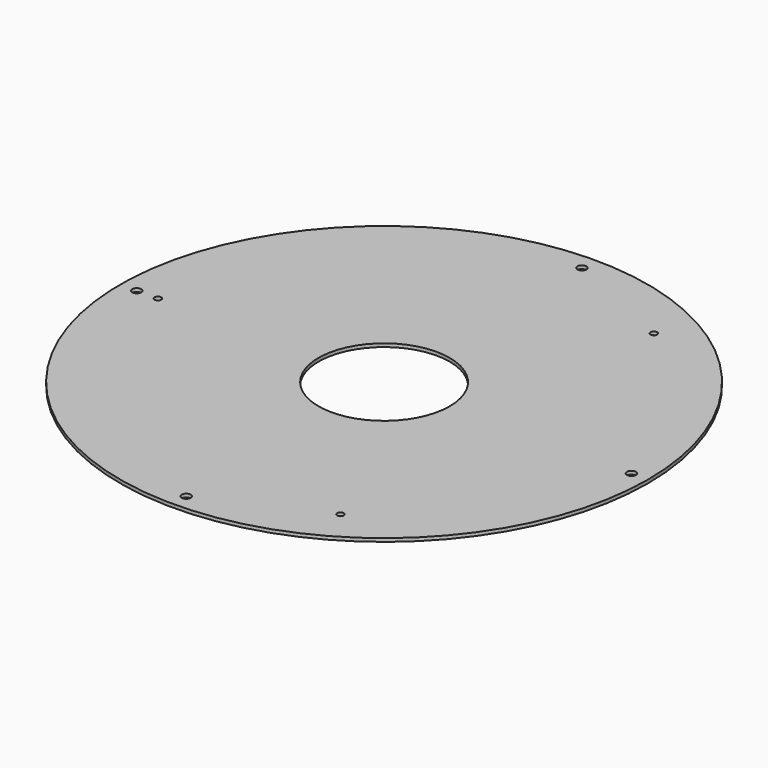
from build123d import *

# Parameters (mm, degrees)
F0_R     = 237.5
F1_DEPTH = 3
F2_D     = 8
F3_D     = 6


with BuildPart() as f1:
    # F0 (on Top) → F1 (new body)
    with BuildSketch(Plane.XY):
        with BuildLine():
            ThreePointArc((-59, 0), (0, -59), (59, 0))
            ThreePointArc((59, 0), (0, 59), (-59, 0))
        make_face()
        Circle(F0_R)
        with BuildLine():
            ThreePointArc((-59, 0), (0, 59), (59, 0))
            ThreePointArc((59, 0), (0, -59), (-59, 0))
        make_face(mode=Mode.SUBTRACT)
    extrude(amount=F1_DEPTH)

    # F2 (through all)
    with Locations(Plane(origin=(0, 0, 0), x_dir=(1, 0, 0), z_dir=(0, 0, -1))):
        with Locations((222.5, 0), (0, 222.5), (-222.5, 0), (0, -222.5)):
            Hole(F2_D / 2)

    # F3 (through all)
    with Locations(Plane(origin=(0, 0, 0), x_dir=(1, 0, 0), z_dir=(0, 0, -1))):
        with Locations((-203.5, 0), (101.75, 176.23617), (101.75, -176.23617)):
            Hole(F3_D / 2)


solid = f1.part
